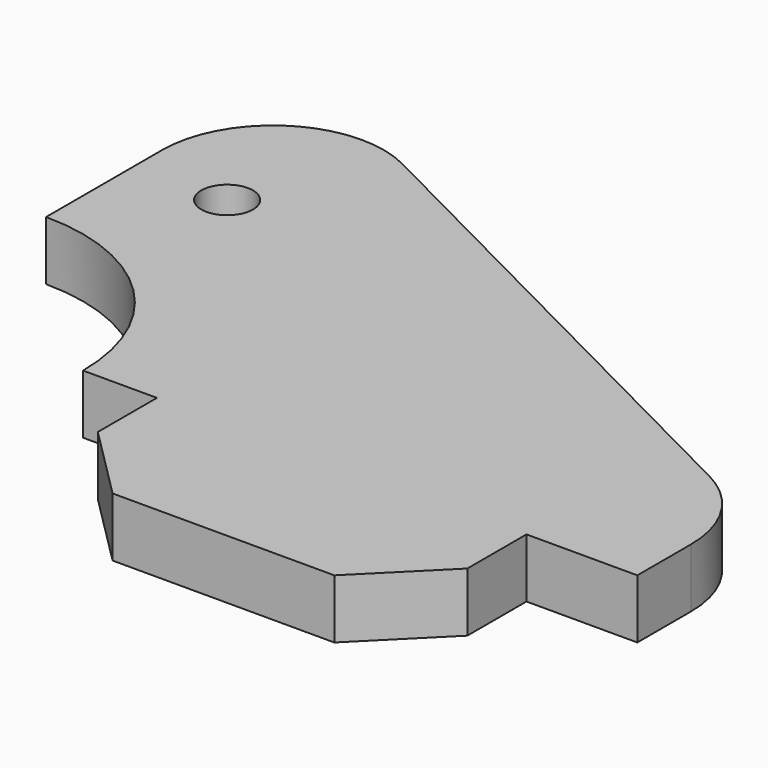
from build123d import *

# Parameters (mm, degrees)
F0_R     = 0.7
F1_DEPTH = 1.6


with BuildPart() as f1:
    # F0 (on Top) → F1 (new body)
    with BuildSketch(Plane.XY):
        with BuildLine():
            Line((-2.5, 0.926186), (-2.5, -3))
            ThreePointArc((-2.5, -3), (1.035534, -4.464466), (2.5, -8))
            Line((2.5, -8), (4.5, -8))
            Line((4.5, -8), (4.5, -10))
            Line((4.5, -10), (6.5, -12))
            Line((6.5, -12), (12.5, -12))
            Line((12.5, -12), (14.5, -10))
            Line((14.5, -10), (14.5, -8))
            Line((14.5, -8), (17.5, -8))
            Line((17.5, -8), (17.5, -6.182542))
            ThreePointArc((17.5, -6.182542), (17.056825, -4.61326), (15.858235, -3.507622))
            Line((15.858235, -3.507622), (1.858235, 3.601107))
            ThreePointArc((1.858235, 3.601107), (-1.069283, 3.483011), (-2.5, 0.926186))
        make_face()
        Circle(F0_R, mode=Mode.SUBTRACT)
    extrude(amount=F1_DEPTH)


solid = f1.part
